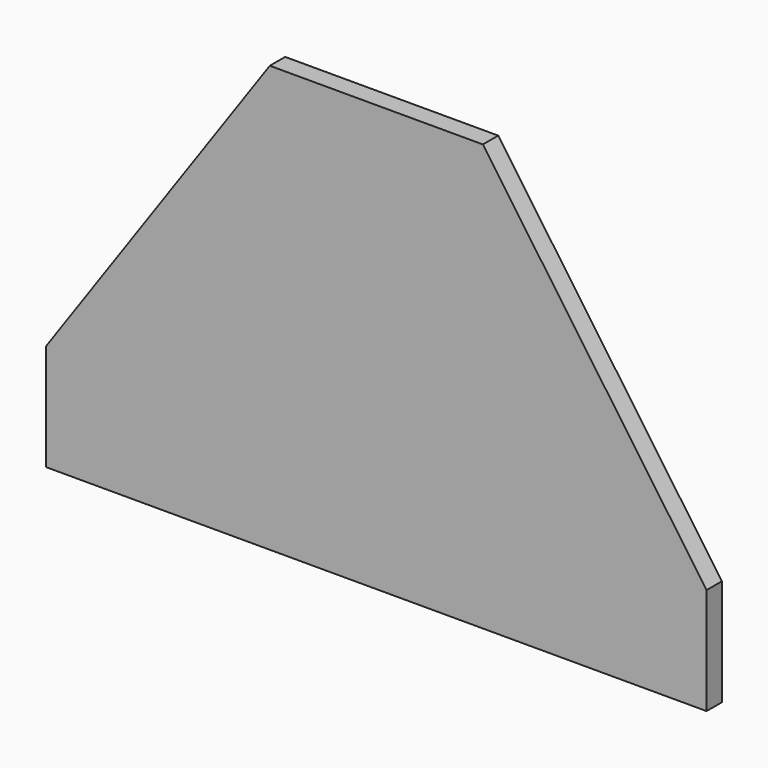
from build123d import *

# Parameters (mm, degrees)
F1_DEPTH = 18


with BuildPart() as f1:
    # F0 (on Front) → F1 (new body)
    with BuildSketch(Plane.XZ):
        Polygon((100, -100), (310, -100), (100, 200), align=None)
        Polygon((-310, -200), (-100, -200), (100, -200), (310, -200), (310, -100), (100, -100), (100, 200), (-100, 200), (-100, -100), (-310, -100), align=None)
        Polygon((-100, 200), (-310, -100), (-100, -100), align=None)
    extrude(amount=F1_DEPTH)


solid = f1.part
